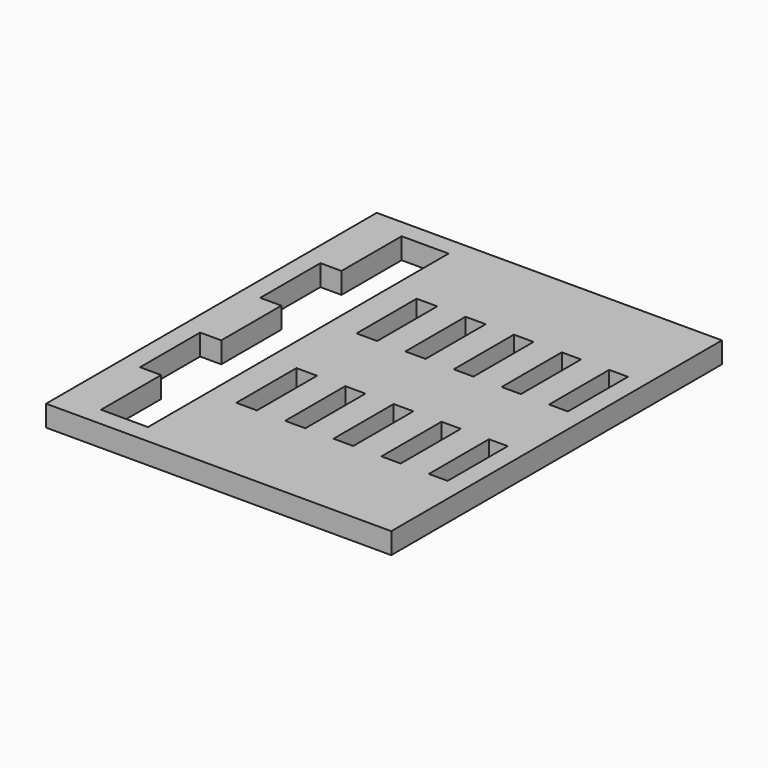
from build123d import *

# Parameters (mm, degrees)
F0_W     = 36.75
F0_H     = 44
F0_W_2   = 2.2
F0_H_2   = 8
F0_W_3   = 2.15
F0_W_4   = 2.1
F0_W_5   = 2.05
F0_W_6   = 2
F1_DEPTH = 2.25


with BuildPart() as f1:
    # F0 (on Top) → F1 (new body)
    with BuildSketch(Plane.XY):
        with Locations((18.375, 22)):
            Rectangle(F0_W, F0_H)
        with Locations((13.35, 14)):
            Rectangle(F0_W_2, F0_H_2, mode=Mode.SUBTRACT)
        with Locations((18.525, 14)):
            Rectangle(F0_W_3, F0_H_2, mode=Mode.SUBTRACT)
        with Locations((23.65, 14)):
            Rectangle(F0_W_4, F0_H_2, mode=Mode.SUBTRACT)
        with Locations((28.725, 14)):
            Rectangle(F0_W_5, F0_H_2, mode=Mode.SUBTRACT)
        with Locations((33.75, 14)):
            Rectangle(F0_W_6, F0_H_2, mode=Mode.SUBTRACT)
        Polygon((9.25, 2), (4.25, 2), (4.25, 10), (2, 10), (2, 18), (4.25, 18), (4.25, 26), (2, 26), (2, 34), (4.25, 34), (4.25, 42), (9.25, 42), align=None, mode=Mode.SUBTRACT)
        with Locations((13.35, 30)):
            Rectangle(F0_W_2, F0_H_2, mode=Mode.SUBTRACT)
        with Locations((18.525, 30)):
            Rectangle(F0_W_3, F0_H_2, mode=Mode.SUBTRACT)
        with Locations((23.65, 30)):
            Rectangle(F0_W_4, F0_H_2, mode=Mode.SUBTRACT)
        with Locations((28.725, 30)):
            Rectangle(F0_W_5, F0_H_2, mode=Mode.SUBTRACT)
        with Locations((33.75, 30)):
            Rectangle(F0_W_6, F0_H_2, mode=Mode.SUBTRACT)
    extrude(amount=F1_DEPTH)


solid = f1.part
